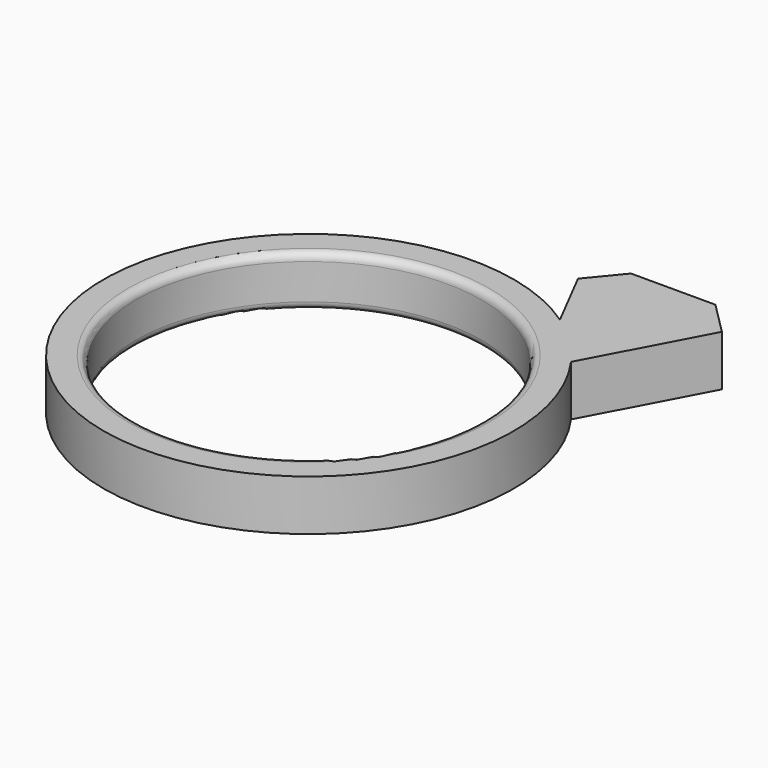
from build123d import *

# Parameters (mm, degrees)
F0_R     = 8.6741
F1_DEPTH = 2.54
F2_R     = 0.381


with BuildPart() as f1:
    # F0 (on Top) → F1 (new body)
    with BuildSketch(Plane.XY):
        with BuildLine():
            Line((4.173269, 11.644027), (5.79504, 8.484029))
            ThreePointArc((5.79504, 8.484029), (-7.189248, -7.340025), (8.361939, 5.969859))
            Line((8.361939, 5.969859), (11.380763, 11.644027))
            Line((11.380763, 11.644027), (9.747064, 13.277726))
            Line((9.747064, 13.277726), (5.518668, 13.277726))
            Line((5.518668, 13.277726), (4.173269, 11.644027))
        make_face()
        Circle(F0_R, mode=Mode.SUBTRACT)
    extrude(amount=F1_DEPTH)

    # F2
    f2_edges = [f1.edges().sort_by_distance(p)[0] for p in [
        (-8.6741, 0, 0),
        (-8.6741, 0, 2.54),
    ]]
    fillet(f2_edges, radius=F2_R)


solid = f1.part
